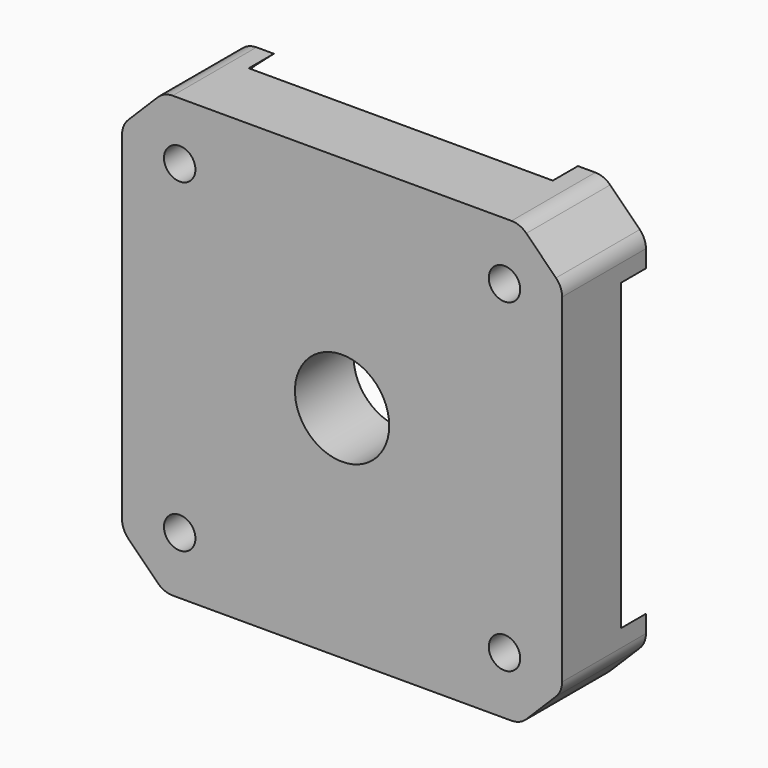
from build123d import *

# Parameters (mm, degrees)
F0_W     = 42
F0_H     = 42
F1_DEPTH = 10
F2_SIZE  = 4
F3_R     = 2
F5_DEPTH = 3
F6_R     = 1.5
F7_DEPTH = 10.001
F8_R     = 4.5
F9_DEPTH = 10.001


with BuildPart() as f1:
    # F0 (on Front) → F1 (new body)
    with BuildSketch(Plane.XZ):
        Rectangle(F0_W, F0_H)
    extrude(amount=F1_DEPTH)

    # F2
    f2_edges = [f1.edges().sort_by_distance(p)[0] for p in [
        (-21, -5, 21),
        (21, -5, 21),
        (21, -5, -21),
        (-21, -5, -21),
    ]]
    chamfer(f2_edges, length=F2_SIZE)

    # F3
    f3_edges = [f1.edges().sort_by_distance(p)[0] for p in [
        (-17, -5, 21),
        (17, -5, 21),
        (21, -5, 17),
        (21, -5, -17),
        (17, -5, -21),
        (-17, -5, -21),
        (-21, -5, -17),
        (-21, -5, 17),
    ]]
    fillet(f3_edges, radius=F3_R)

    # F4 (on face) → F5 (cut)
    with BuildSketch(Plane(origin=(0, 0, 0), x_dir=(-1, 0, 0), z_dir=(0, 1, 0))):
        with BuildLine():
            ThreePointArc((-14.5105618091, 21), (-17.8908729653, 17.8908729653), (-21, 14.5105618091))
            Line((-21, 14.5105618091), (-21, -14.5105618091))
            ThreePointArc((-21, -14.5105618091), (-17.8908729653, -17.8908729653), (-14.5105618091, -21))
            Line((-14.5105618091, -21), (14.5105618091, -21))
            ThreePointArc((14.5105618091, -21), (17.8908729653, -17.8908729653), (21, -14.5105618091))
            Line((21, -14.5105618091), (21, 14.5105618091))
            ThreePointArc((21, 14.5105618091), (17.8908729653, 17.8908729653), (14.5105618091, 21))
            Line((14.5105618091, 21), (-14.5105618091, 21))
        make_face()
    extrude(amount=-F5_DEPTH, mode=Mode.SUBTRACT)

    # F6 (on face) → F7 (cut, through all)
    with BuildSketch(Plane.XZ.offset(10)):
        with Locations((-15.5, 15.5)):
            Circle(F6_R)
        with Locations((-15.5, -15.5)):
            Circle(F6_R)
        with Locations((15.5, -15.5)):
            Circle(F6_R)
        with Locations((15.5, 15.5)):
            Circle(F6_R)
    extrude(amount=-F7_DEPTH, mode=Mode.SUBTRACT)

    # F8 (on face) → F9 (cut, through all)
    with BuildSketch(Plane.XZ.offset(10)):
        Circle(F8_R)
    extrude(amount=-F9_DEPTH, mode=Mode.SUBTRACT)


solid = f1.part
